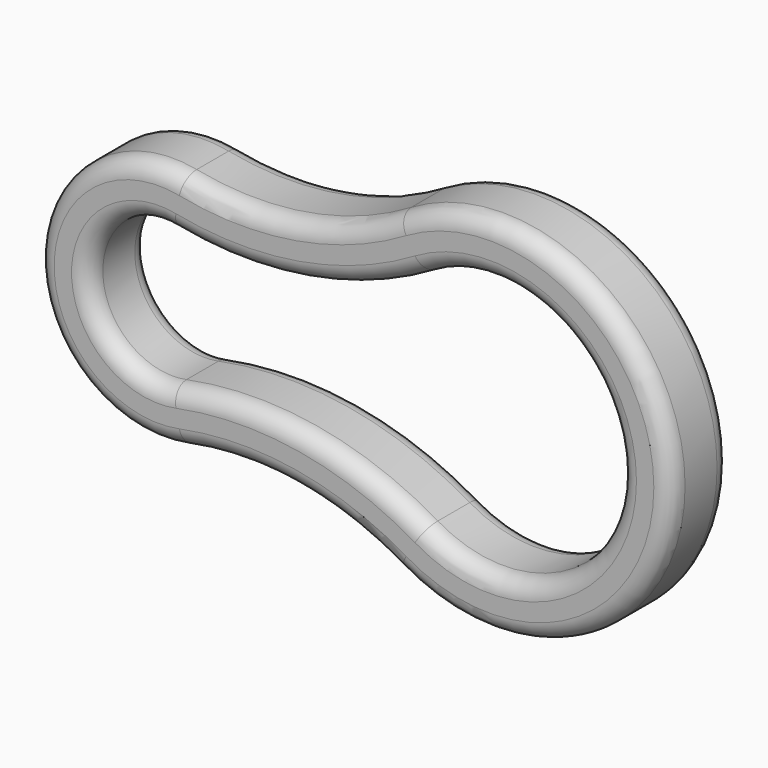
from build123d import *

# Parameters (mm, degrees)
F1_DEPTH = 10.922
F2_R     = 2.54


with BuildPart() as f1:
    # F0 (on Front) → F1 (new body)
    with BuildSketch(Plane.XZ):
        with BuildLine():
            ThreePointArc((3.504333, -17.501858), (19.685865, -17.265042), (34.880617, -22.834382))
            ThreePointArc((34.880617, -22.834382), (74.924402, 0), (34.880617, 22.834382))
            ThreePointArc((34.880617, 22.834382), (19.685865, 17.265042), (3.504333, 17.501858))
            ThreePointArc((3.504333, 17.501858), (-17.84924, 0), (3.504333, -17.501858))
        make_face()
        with BuildLine():
            ThreePointArc((2.008303, -10.030162), (-10.229243, 0), (2.008303, 10.030162))
            ThreePointArc((2.008303, 10.030162), (20.962606, 9.752766), (38.761041, 16.276435))
            ThreePointArc((38.761041, 16.276435), (67.304405, 0), (38.761041, -16.276435))
            ThreePointArc((38.761041, -16.276435), (20.962606, -9.752766), (2.008303, -10.030162))
        make_face(mode=Mode.SUBTRACT)
    extrude(amount=F1_DEPTH)

    # F2
    f2_edges = [f1.edges().sort_by_distance(p)[0] for p in [
        (74.924402, -10.922, 0),
        (19.685865, 0, 17.265042),
        (67.304405, -10.922, 0),
        (20.962606, 0, -9.752766),
    ]]
    fillet(f2_edges, radius=F2_R)


solid = f1.part
